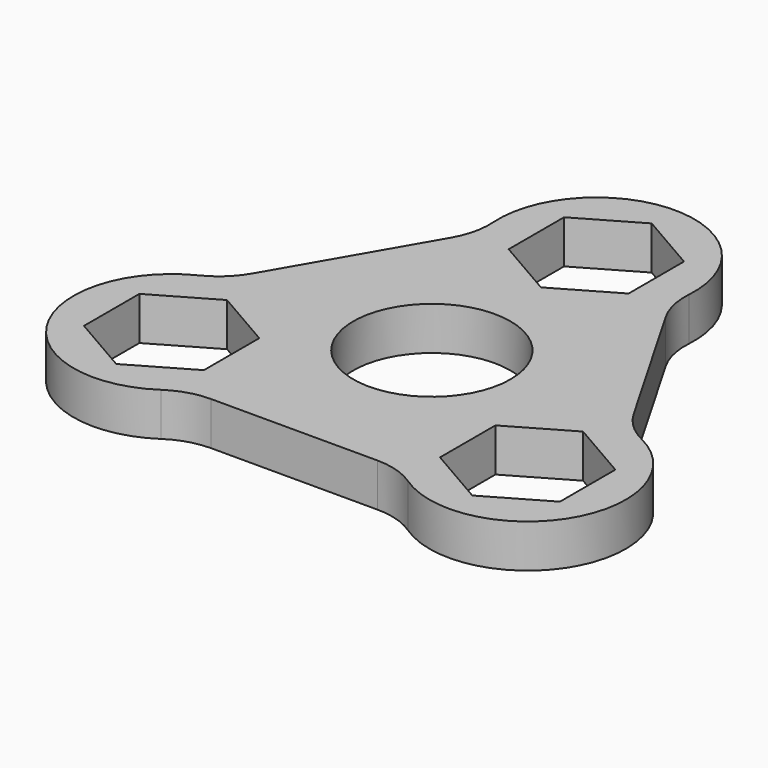
from build123d import *

# Parameters (mm, degrees)
F1_R     = 10.9
F2_DEPTH = 6


with BuildPart() as f2:
    # F1 (on Top) → F2 (new body)
    with BuildSketch(Plane.XY):
        with BuildLine():
            ThreePointArc((14.8865145664, 21.9158004234), (13.8060407688, 24.6534518128), (13.5693242804, 27.5870714304))
            ThreePointArc((13.5693242804, 27.5870714304), (0, 42.1), (-13.5693242804, 27.5870714304))
            ThreePointArc((-13.5693242804, 27.5870714304), (-13.8060407688, 24.6534518128), (-14.8865145664, 21.9158004234))
            Line((-14.8865145664, 21.9158004234), (-26.4228971941, 1.9341995766))
            ThreePointArc((-26.4228971941, 1.9341995766), (-28.2535359452, -0.3703438749), (-30.675766815, -2.0421561762))
            ThreePointArc((-30.675766815, -2.0421561762), (-36.4596694993, -21.05), (-17.1064425346, -25.5449152542))
            ThreePointArc((-17.1064425346, -25.5449152542), (-14.4474951764, -24.2831079379), (-11.5363826277, -23.85))
            Line((-11.5363826277, -23.85), (11.5363826277, -23.85))
            ThreePointArc((11.5363826277, -23.85), (14.4474951764, -24.2831079379), (17.1064425346, -25.5449152542))
            ThreePointArc((17.1064425346, -25.5449152542), (36.4596694993, -21.05), (30.675766815, -2.0421561762))
            ThreePointArc((30.675766815, -2.0421561762), (28.2535359452, -0.3703438749), (26.4228971941, 1.9341995766))
            Line((26.4228971941, 1.9341995766), (14.8865145664, 21.9158004234))
        make_face()
        Polygon((-32.9955678842, -9.45), (-24.6817240079, -4.65), (-16.3678801315, -9.45), (-16.3678801315, -19.05), (-24.6817240079, -23.85), (-32.9955678842, -19.05), align=None, mode=Mode.SUBTRACT)
        Circle(F1_R, mode=Mode.SUBTRACT)
        Polygon((16.3678801315, -9.45), (24.6817240079, -4.65), (32.9955678842, -9.45), (32.9955678842, -19.05), (24.6817240079, -23.85), (16.3678801315, -19.05), align=None, mode=Mode.SUBTRACT)
        Polygon((0, 38.1), (8.3138438763, 33.3), (8.3138438763, 23.7), (0, 18.9), (-8.3138438763, 23.7), (-8.3138438763, 33.3), align=None, mode=Mode.SUBTRACT)
    extrude(amount=F2_DEPTH)


solid = f2.part
